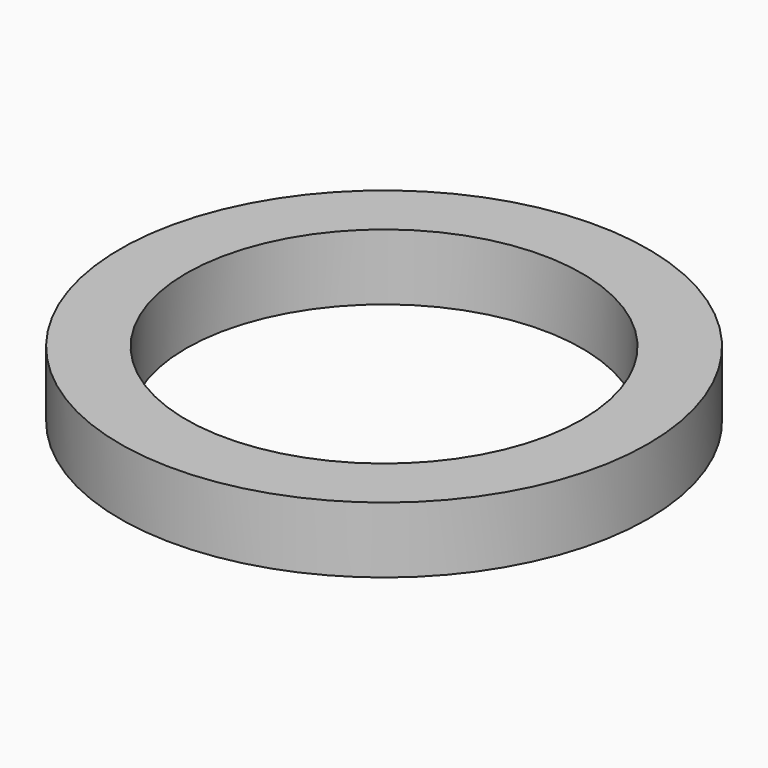
from build123d import *

# Parameters (mm, degrees)
CYLINDER026_R     = 6
CYLINDER026_DEPTH = 2
CYLINDER025_R     = 8
CYLINDER025_DEPTH = 2


with BuildPart() as cilindro009:
    # Cylinder026 → Cylinder026 (new body)
    with BuildSketch(Plane(origin=(25, 56, 0), x_dir=(1, 0, 0), z_dir=(0, 0, 1))):
        Circle(CYLINDER026_R)
    extrude(amount=CYLINDER026_DEPTH)


with BuildPart() as brida008:
    # Cylinder025 → Cylinder025 (new body)
    with BuildSketch(Plane(origin=(25, 56, 0), x_dir=(1, 0, 0), z_dir=(0, 0, 1))):
        Circle(CYLINDER025_R)
    extrude(amount=CYLINDER025_DEPTH)

    # Cut017: cut Cilindro009
    add(cilindro009.part, mode=Mode.SUBTRACT)


with BuildPart() as brida008_1:
    # Cut017 placement: moved
    add(brida008.part.moved(Location((0, 0, 7))))


solid = brida008_1.part
